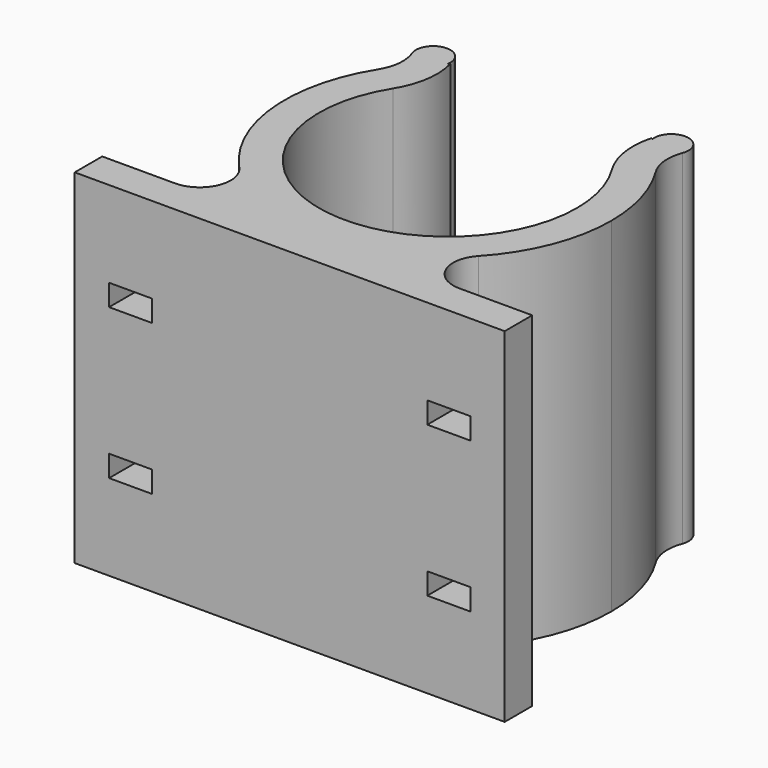
from build123d import *

# Parameters (mm, degrees)
F1_DEPTH = 25.4
F2_W     = 3.175
F2_H     = 1.5875
F3_DEPTH = 2.566946587
F4_W     = 1.5875
F4_H     = 5.08
F5_DEPTH = 25.4


with BuildPart() as f1:
    # F0 (on Top) → F1 (new body)
    with BuildSketch(Plane.XY):
        with BuildLine():
            ThreePointArc((10.5034451491, -12.065), (8.4074088227, -10.6913747686), (8.8303299626, -8.2212832181))
            ThreePointArc((8.8303299626, -8.2212832181), (4.8153111516, -11.0624140003), (0, -12.065))
            Line((0, -12.065), (10.5034451491, -12.065))
        make_face()
        Polygon((10.5034451491, -12.065), (0, -12.065), (-10.5034451491, -12.065), (-15.875, -12.065), (-15.875, -14.605), (0, -14.605), (15.875, -14.605), (15.875, -12.065), align=None)
        with BuildLine():
            ThreePointArc((0, -12.065), (-4.8153111516, -11.0624140003), (-8.8303299626, -8.2212832181))
            ThreePointArc((-8.8303299626, -8.2212832181), (-8.3761772632, -8.9420248858), (-8.2174451491, -9.779))
            ThreePointArc((-8.2174451491, -9.779), (-8.8869990473, -11.3954461018), (-10.5034451491, -12.065))
            Line((-10.5034451491, -12.065), (0, -12.065))
        make_face()
        with BuildLine():
            ThreePointArc((8.0915303411, 5.0252126064), (9.1596247603, 2.6128335673), (9.525, 0))
            ThreePointArc((9.525, 0), (-2.6128335673, -9.1596247603), (-8.0915303411, 5.0252126064))
            ThreePointArc((-8.0915303411, 5.0252126064), (-7.2937412546, 7.1988383693), (-7.4238053541, 9.5105908894))
            ThreePointArc((-7.4238053541, 9.5105908894), (-7.4818724406, 9.4649780656), (-7.539659283, 9.4190107175))
            ThreePointArc((-7.539659283, 9.4190107175), (-9.0245693038, 8.0075822743), (-10.2492717654, 6.3652693014))
            ThreePointArc((-10.2492717654, 6.3652693014), (-12.0083170813, -1.1681377807), (-8.8303299626, -8.2212832181))
            ThreePointArc((-8.8303299626, -8.2212832181), (-4.8153111516, -11.0624140003), (0, -12.065))
            ThreePointArc((0, -12.065), (4.8153111516, -11.0624140003), (8.8303299626, -8.2212832181))
            ThreePointArc((8.8303299626, -8.2212832181), (11.2272471247, -4.4173687871), (12.065, 0))
            ThreePointArc((12.065, 0), (11.602191363, 3.3095891853), (10.2492717654, 6.3652693014))
            ThreePointArc((10.2492717654, 6.3652693014), (9.0245693038, 8.0075822743), (7.539659283, 9.4190107175))
            ThreePointArc((7.539659283, 9.4190107175), (7.4818724406, 9.4649780656), (7.4238053541, 9.5105908894))
            ThreePointArc((7.4238053541, 9.5105908894), (7.2937412546, 7.1988383693), (8.0915303411, 5.0252126064))
        make_face()
        with BuildLine():
            ThreePointArc((7.6063568635, 10.0761804943), (7.5295347203, 9.7520078104), (7.539659283, 9.4190107175))
            ThreePointArc((7.539659283, 9.4190107175), (9.0245693038, 8.0075822743), (10.2492717654, 6.3652693014))
            ThreePointArc((10.2492717654, 6.3652693014), (9.7859952946, 7.736761108), (9.9797309445, 9.1713625725))
            ThreePointArc((9.9797309445, 9.1713625725), (9.2454528649, 10.8104585739), (7.6063568635, 10.0761804943))
        make_face()
        with BuildLine():
            ThreePointArc((-10.2492717654, 6.3652693014), (-9.0245693038, 8.0075822743), (-7.539659283, 9.4190107175))
            ThreePointArc((-7.539659283, 9.4190107175), (-7.5295347203, 9.7520078104), (-7.6063568635, 10.0761804943))
            ThreePointArc((-7.6063568635, 10.0761804943), (-9.2454528649, 10.8104585739), (-9.9797309445, 9.1713625725))
            ThreePointArc((-9.9797309445, 9.1713625725), (-9.7859952946, 7.736761108), (-10.2492717654, 6.3652693014))
        make_face()
    extrude(amount=F1_DEPTH)

    # F2 (on face) → F3 (cut, through all)
    with BuildSketch(Plane.XZ.offset(14.605)):
        with Locations((-11.7475, 18.25625)):
            Rectangle(F2_W, F2_H)
        with Locations((11.7475, 18.25625)):
            Rectangle(F2_W, F2_H)
        with Locations((11.7475, 7.14375)):
            Rectangle(F2_W, F2_H)
        with Locations((-11.7475, 7.14375)):
            Rectangle(F2_W, F2_H)
    extrude(amount=-F3_DEPTH, mode=Mode.SUBTRACT)

    # F4 (on face) → F5 (cut)
    with BuildSketch(Plane.YZ.offset(15.875)):
        with Locations((-11.27125, 4.445)):
            Rectangle(F4_W, F4_H)
        with Locations((-11.27125, 20.955)):
            Rectangle(F4_W, F4_H)
    extrude(amount=-F5_DEPTH, mode=Mode.SUBTRACT)


solid = f1.part
